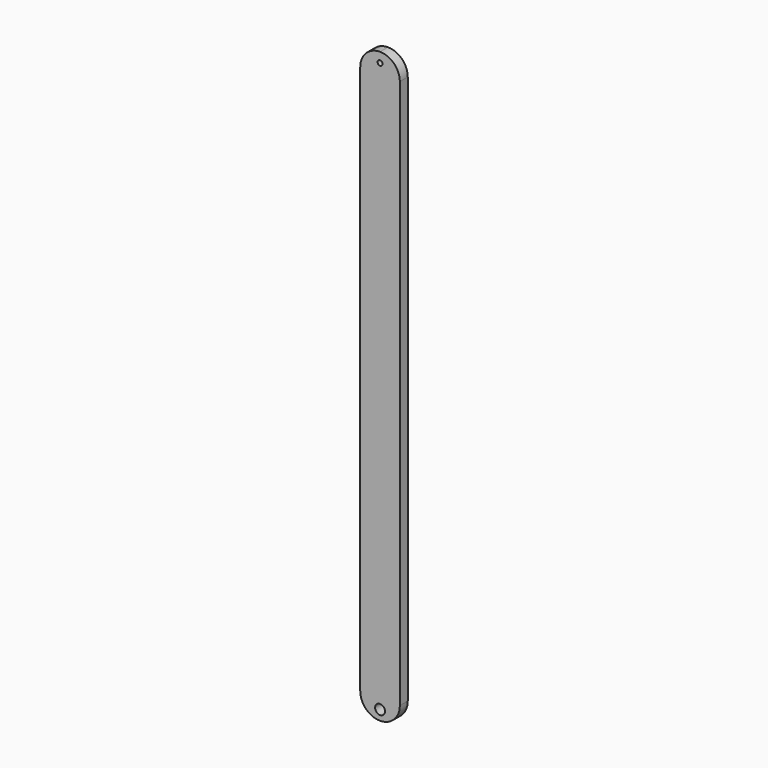
from build123d import *

# Parameters (mm, degrees)
F0_R     = 1.5875
F0_R_2   = 0.79375
F1_DEPTH = 3.175


with BuildPart() as f1:
    # F0 (on Front) → F1 (new body)
    with BuildSketch(Plane.XZ):
        with BuildLine():
            ThreePointArc((1.419532, 43.416747), (-3.070596, 41.556875), (-4.930468, 37.066747))
            Line((-4.930468, 37.066747), (-4.930468, -139.158453))
            ThreePointArc((-4.930468, -139.158453), (-3.070596, -143.648581), (1.419532, -145.508453))
            ThreePointArc((1.419532, -145.508453), (5.90966, -143.648581), (7.769532, -139.158453))
            Line((7.769532, -139.158453), (7.769532, 37.066747))
            ThreePointArc((7.769532, 37.066747), (5.90966, 41.556875), (1.419532, 43.416747))
        make_face()
        with Locations((1.419532, -142.333453)):
            Circle(F0_R, mode=Mode.SUBTRACT)
        with Locations((1.419532, 40.241747)):
            Circle(F0_R_2, mode=Mode.SUBTRACT)
    extrude(amount=F1_DEPTH)


solid = f1.part
